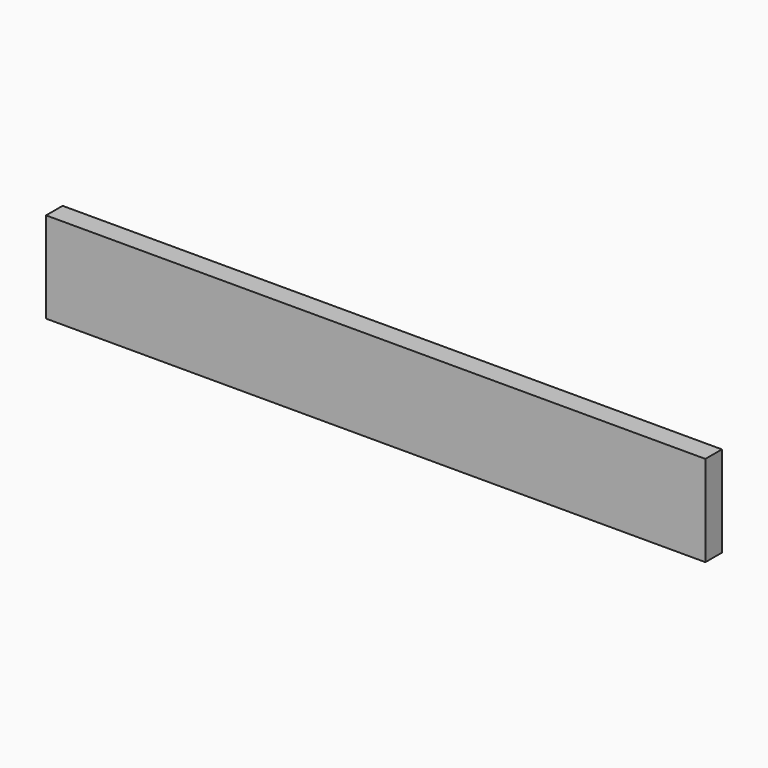
from build123d import *

# Parameters (mm, degrees)
F0_W     = 506.4125
F0_H     = 69.85
F1_DEPTH = 15.875
F3_START = -6.35
F2_W     = 6.35
F2_H     = 6.604
F3_DEPTH = 495.3
F4_R     = 3.175


with BuildPart() as f1:
    # F0 (on Front) → F1 (new body)
    with BuildSketch(Plane.XZ):
        with Locations((253.20625, 34.925)):
            Rectangle(F0_W, F0_H)
    extrude(amount=-F1_DEPTH)

    # F2 (on face) → F3 (cut)
    with BuildSketch(Plane.YZ.offset(506.4125).offset(F3_START)):
        with Locations((12.7, 6.477)):
            Rectangle(F2_W, F2_H)
    extrude(amount=-F3_DEPTH, mode=Mode.SUBTRACT)

    # F4
    f4_edges = [f1.edges().sort_by_distance(p)[0] for p in [
        (500.0625, 12.7, 9.779),
        (500.0625, 12.7, 3.175),
        (4.7625, 12.7, 3.175),
        (4.7625, 12.7, 9.779),
    ]]
    fillet(f4_edges, radius=F4_R)


solid = f1.part
